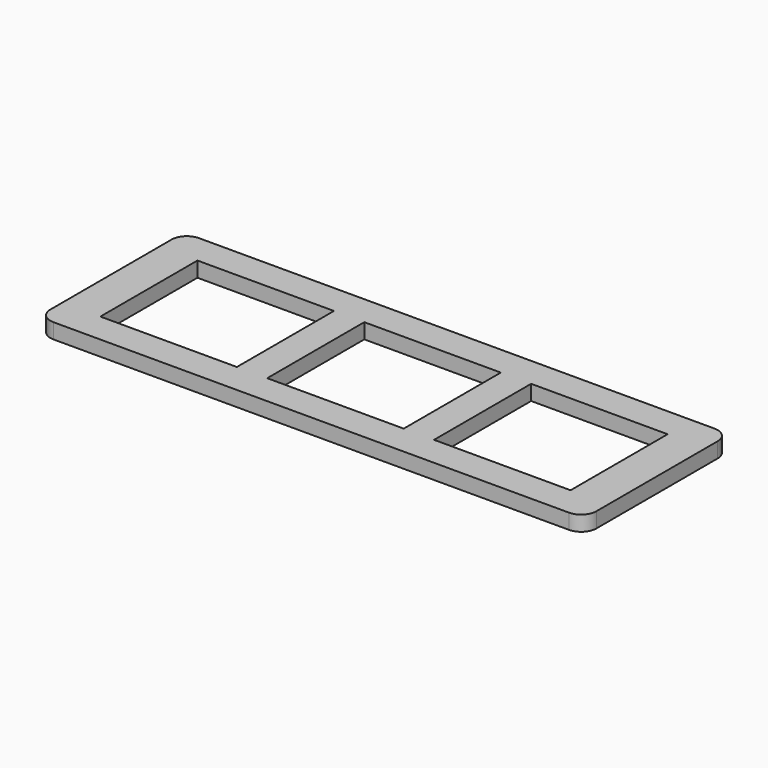
from build123d import *

# Parameters (mm, degrees)
F1_DEPTH = 5
F2_W     = 45
F2_H     = 40
F3_DEPTH = 5


with BuildPart() as f1:
    # F0 (on Top) → F1 (new body)
    with BuildSketch(Plane.XY):
        with BuildLine():
            Line((-85, -30), (85, -30))
            ThreePointArc((85, -30), (88.535534, -28.535534), (90, -25))
            Line((90, -25), (90, 25))
            ThreePointArc((90, 25), (88.535534, 28.535534), (85, 30))
            Line((85, 30), (-85, 30))
            ThreePointArc((-85, 30), (-88.535534, 28.535534), (-90, 25))
            Line((-90, 25), (-90, -25))
            ThreePointArc((-90, -25), (-88.535534, -28.535534), (-85, -30))
        make_face()
    extrude(amount=F1_DEPTH)

    # F2 (on face) → F3 (cut)
    with BuildSketch(Plane.XY.offset(5)):
        Rectangle(F2_W, F2_H)
        with Locations((55, 0)):
            Rectangle(F2_W, F2_H)
        with Locations((-55, 0)):
            Rectangle(F2_W, F2_H)
    extrude(amount=-F3_DEPTH, mode=Mode.SUBTRACT)


solid = f1.part
